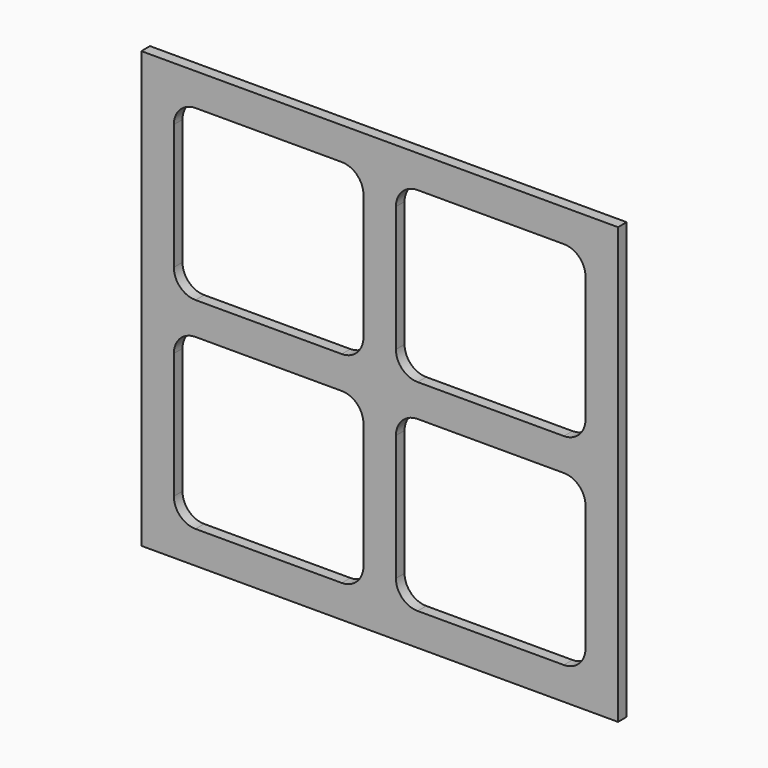
from build123d import *

# Parameters (mm, degrees)
F0_W     = 440
F0_H     = 402
F0_W_2   = 175
F0_H_2   = 156
F1_DEPTH = 10
F2_R     = 20


with BuildPart() as f1:
    # F0 (on Front) → F1 (new body)
    with BuildSketch(Plane.XZ):
        with Locations((-36.484095, -5.070948)):
            Rectangle(F0_W, F0_H)
        with Locations((-138.984095, -98.070948)):
            Rectangle(F0_W_2, F0_H_2, mode=Mode.SUBTRACT)
        with Locations((66.015905, -98.070948)):
            Rectangle(F0_W_2, F0_H_2, mode=Mode.SUBTRACT)
        with Locations((-138.984095, 87.929052)):
            Rectangle(F0_W_2, F0_H_2, mode=Mode.SUBTRACT)
        with Locations((66.015905, 87.929052)):
            Rectangle(F0_W_2, F0_H_2, mode=Mode.SUBTRACT)
    extrude(amount=F1_DEPTH)

    # F2
    f2_edges = [f1.edges().sort_by_distance(p)[0] for p in [
        (153.515905, -5, 165.929052),
        (-21.484095, -5, 165.929052),
        (-226.484095, -5, 165.929052),
        (-226.484095, -5, -20.070948),
        (-21.484095, -5, -20.070948),
        (-51.484095, -5, 165.929052),
        (-51.484095, -5, 9.929052),
        (-51.484095, -5, -176.070948),
        (153.515905, -5, -176.070948),
        (153.515905, -5, 9.929052),
        (-226.484095, -5, -176.070948),
        (-226.484095, -5, 9.929052),
        (-21.484095, -5, -176.070948),
        (-21.484095, -5, 9.929052),
        (-51.484095, -5, -20.070948),
        (153.515905, -5, -20.070948),
    ]]
    fillet(f2_edges, radius=F2_R)


solid = f1.part
